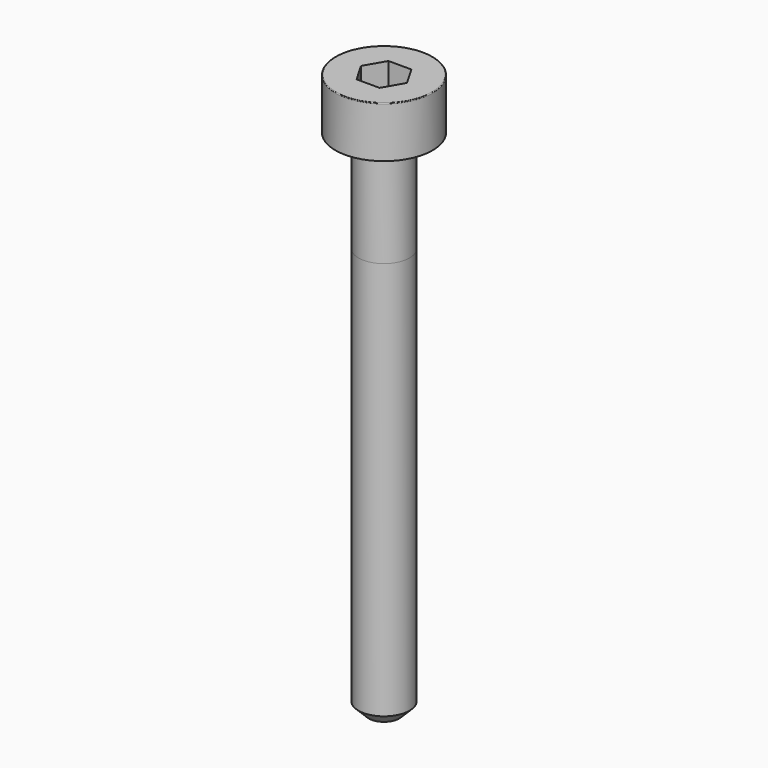
from build123d import *

# Parameters (mm, degrees)
POCKET_DEPTH = 1.56


with BuildPart() as part:
    # Sketch → Revolve (revolve)
    with BuildSketch(Plane.YZ):
        with BuildLine():
            Line((0.999, 0), (1.9, 0))
            Line((1.9, 0), (1.9, 1.97229))
            ThreePointArc((1.9, 1.97229), (1.891884, 1.991884), (1.87229, 2))
            Line((1.87229, 2), (0, 2))
            Line((0, -20), (0, 2))
            Line((0.6, -20), (0, -20))
            Line((1, -19.6), (0.6, -20))
            Line((1, -4), (1, -19.6))
            Line((0.999, 0), (1, -4))
        make_face()
    revolve(axis=Axis((0, 0, 0), (0, 0, 1)))

    # Sketch001 → Pocket (cut)
    with BuildSketch(Plane.XY.offset(2)):
        Polygon((0.900666, 0), (0.450333, 0.78), (-0.450333, 0.78), (-0.900666, 0), (-0.450333, -0.78), (0.450333, -0.78), align=None)
    extrude(amount=-POCKET_DEPTH, mode=Mode.SUBTRACT)


solid = part.part
